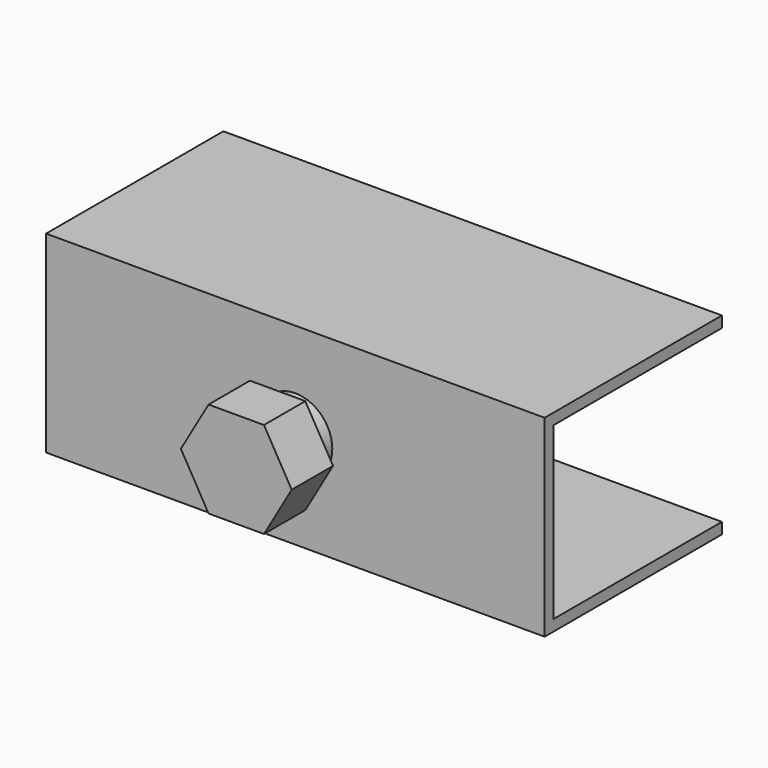
from build123d import *

# Parameters (mm, degrees)
SKETCH018_W    = 135
SKETCH018_H    = 46.2
PAD008_DEPTH   = 57
THICKNESS001_T = 3
SKETCH019_R    = 10
PAD009_DEPTH   = 6
PAD010_DEPTH   = 14


with BuildPart() as part:
    # Sketch018 → Pad008 (new body)
    with BuildSketch(Plane.XZ):
        with Locations((67.5, 23.1)):
            Rectangle(SKETCH018_W, SKETCH018_H)
    extrude(amount=PAD008_DEPTH)

    # Thickness001
    thickness001_openings = [part.faces().sort_by_distance(p)[0] for p in [
        (135, -28.5, 23.1),
        (67.5, 0, 23.1),
        (0, -28.5, 23.1),
    ]]
    offset(amount=THICKNESS001_T, openings=thickness001_openings, kind=Kind.INTERSECTION)

    # Sketch019 (on Face10 of Thickness001) → Pad009 (join)
    with BuildSketch(Plane.XZ.offset(60)):
        with Locations((67.5, 23.1)):
            Circle(SKETCH019_R)
    extrude(amount=PAD009_DEPTH)

    # Sketch020 (on Face12 of Pad009) → Pad010 (join)
    with BuildSketch(Plane.XZ.offset(66)):
        Polygon((60, 36.090381), (52.5, 23.1), (60, 10.109619), (75, 10.109619), (82.5, 23.1), (75, 36.090381), align=None)
    extrude(amount=PAD010_DEPTH)


solid = part.part
